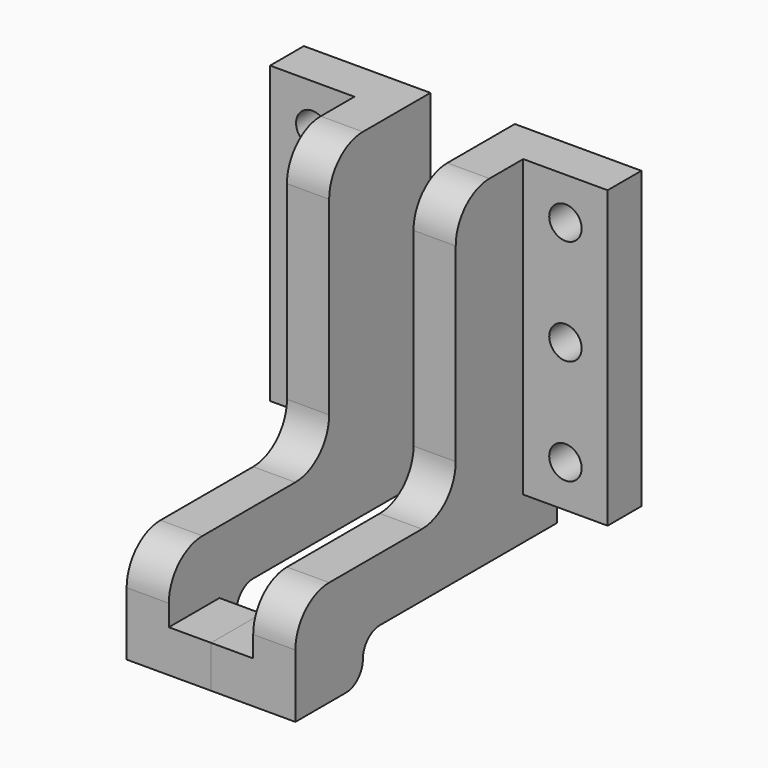
from build123d import *

# Parameters (mm, degrees)
F1_DEPTH = 3.175
F2_W     = 4.7625
F2_H     = 3.175
F3_DEPTH = 3.175
F4_W     = 3.175
F4_H     = 22.225
F5_DEPTH = 6.35
F6_R     = 1.2192
F7_DEPTH = 25.4


with BuildPart() as f1:
    # F0 (on Right) → F1 (new body)
    with BuildSketch(Plane.YZ):
        with BuildLine():
            Line((37.6760785595, 44.3264348761), (31.3260785595, 44.3264348761))
            ThreePointArc((31.3260785595, 44.3264348761), (29.0810145292, 43.3964989063), (28.1510785595, 41.1514348761))
            Line((28.1510785595, 41.1514348761), (28.1510785595, 26.8639348761))
            ThreePointArc((28.1510785595, 26.8639348761), (27.2211425898, 24.6188708458), (24.9760785595, 23.6889348761))
            Line((24.9760785595, 23.6889348761), (16.2448285595, 23.6889348761))
            ThreePointArc((16.2448285595, 23.6889348761), (13.9997645292, 22.7589989063), (13.0698285595, 20.5139348761))
            Line((13.0698285595, 20.5139348761), (13.0698285595, 15.7514348761))
            Line((13.0698285595, 15.7514348761), (17.8323285595, 15.7514348761))
            ThreePointArc((17.8323285595, 15.7514348761), (18.9548605746, 16.2164028609), (19.4198285595, 17.3389348761))
            ThreePointArc((19.4198285595, 17.3389348761), (19.8847965444, 18.4614668912), (21.0073285595, 18.9264348761))
            Line((21.0073285595, 18.9264348761), (37.6760785595, 18.9264348761))
            Line((37.6760785595, 18.9264348761), (37.6760785595, 44.3264348761))
        make_face()
    extrude(amount=F1_DEPTH)

    # F2 (on face) → F3 (join)
    with BuildSketch(Plane.YZ.offset(3.175)):
        with Locations((15.4510785595, 17.3389348761)):
            Rectangle(F2_W, F2_H)
    extrude(amount=F3_DEPTH)

    # F4 (on face) → F5 (join)
    with BuildSketch(Plane(origin=(0, 0, 0), x_dir=(0, -1, 0), z_dir=(-1, 0, 0))):
        with Locations((-36.0885785595, 33.2139348761)):
            Rectangle(F4_W, F4_H)
    extrude(amount=F5_DEPTH)

    # F6 (on face) → F7 (cut)
    with BuildSketch(Plane.XZ.offset(-34.5010785595)):
        with Locations((-3.175, 41.1514348761)):
            Circle(F6_R)
        with Locations((-3.175, 33.2139348761)):
            Circle(F6_R)
        with Locations((-3.175, 25.2764348761)):
            Circle(F6_R)
    extrude(amount=-F7_DEPTH, mode=Mode.SUBTRACT)


with BuildPart() as f8_1:
    # F8: instance of F1
    add(f1.part.mirror(Plane(origin=(6.35, 15.4510785595, 17.3389348761), x_dir=(0, 1, 0), z_dir=(1, 0, 0))))


solid = Compound([f1.part, f8_1.part])
